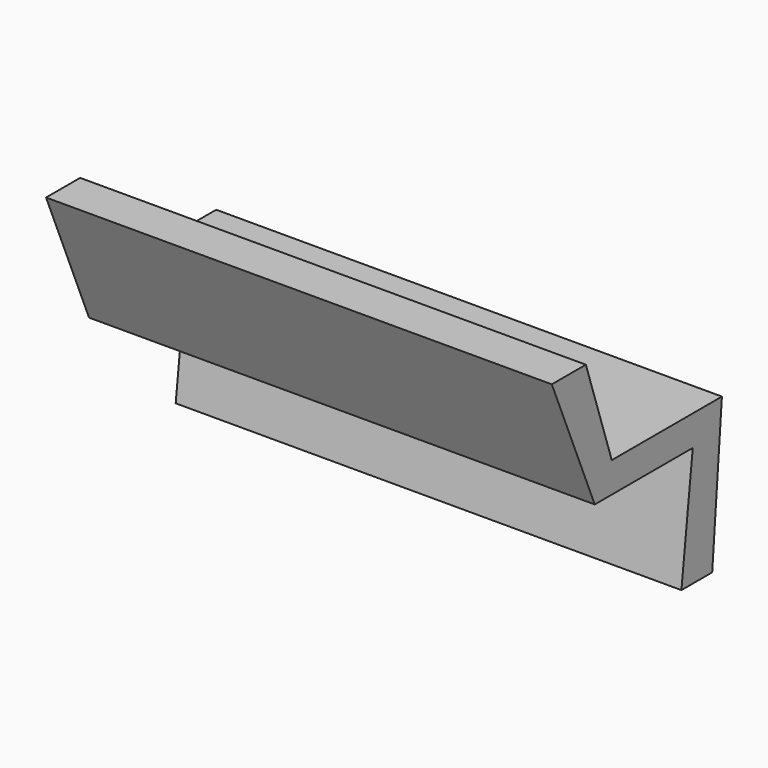
from build123d import *


with BuildPart() as f2:
    # F2: sweep along a path in F1
    with BuildLine(Plane.XZ) as f2_path:
        Line((0, 48.130438), (-97.728267, 48.130438))
    # F0 (on Right) → F2 (sweep)
    with BuildSketch(Plane.YZ):
        Polygon((11.25, 0), (18.684784, 0), (21.032609, 28.956523), (-5.576087, 28.956523), (-11.836957, 47.739133), (-20.054348, 47.739133), (-9.684783, 23.086958), (13.989129, 23.086958), align=None)
    sweep(path=f2_path.line)


solid = f2.part
